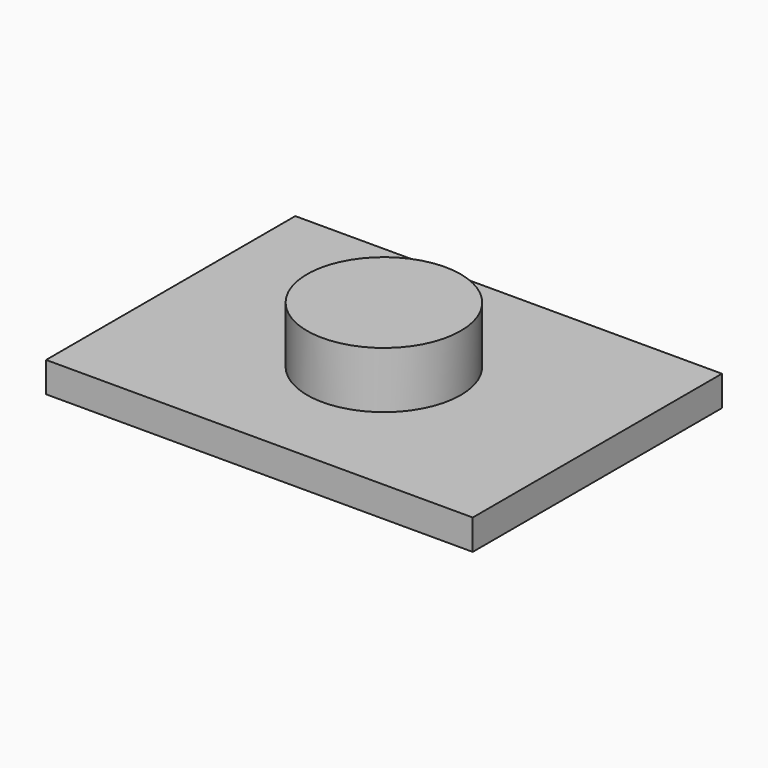
from build123d import *

# Parameters (mm, degrees)
F0_W      = 25.4
F0_H      = 18.542
F1_DEPTH  = 1.8034
F2_R      = 4.572
F3_DEPTH  = 3.3655
F3_FACE_R = 4.572
F4_DEPTH  = 1.5621


with BuildPart() as f1:
    # F0 (on Top) → F1 (new body)
    with BuildSketch(Plane.XY):
        with Locations((-41.440347, 17.31006)):
            Rectangle(F0_W, F0_H)
    extrude(amount=F1_DEPTH)

    # F2 (on face) → F3 (join, symmetric)
    with BuildSketch(Plane.XY.offset(1.8034)):
        with Locations((-41.445623, 17.31006)):
            Circle(F2_R)
    extrude(amount=F3_DEPTH, both=True)

    # F3_face (on face) → F4 (cut, through all)
    with BuildSketch(Plane(origin=(-41.445623, 17.31006, -1.5621), x_dir=(1, 0, 0), z_dir=(0, 0, -1))):
        Circle(F3_FACE_R)
    extrude(amount=-F4_DEPTH, mode=Mode.SUBTRACT)


solid = f1.part
